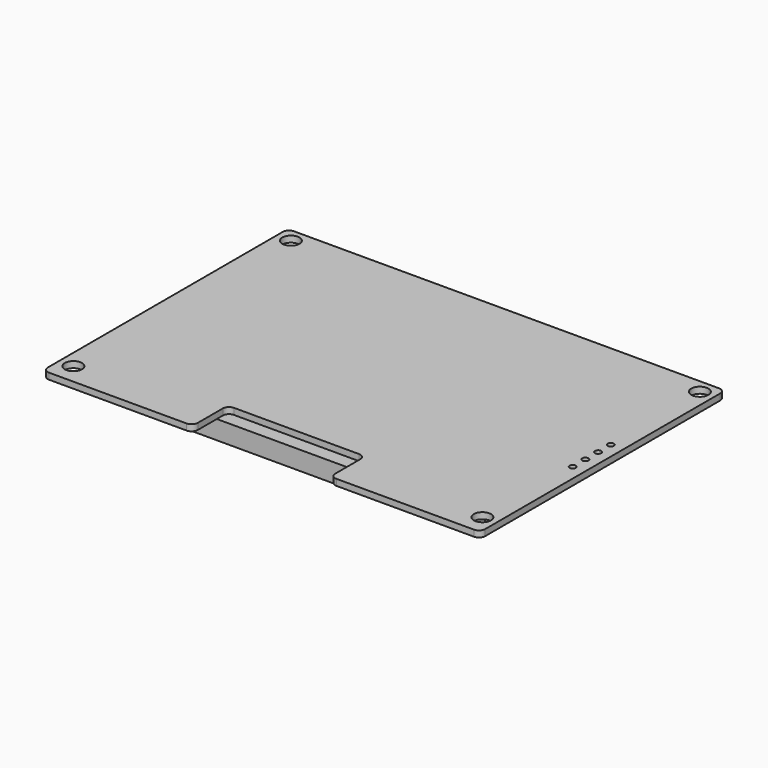
from build123d import *

# Parameters (mm, degrees)
SKETCH010_R     = 1.375
PAD005_DEPTH    = 1
FILLET001_R     = 1
PAD006_DEPTH    = 3
SKETCH012_W     = 57.5
SKETCH012_H     = 30.3
POCKET002_DEPTH = 0.2
SKETCH013_R     = 0.5
POCKET003_DEPTH = 4.001


with BuildPart() as part:
    # Sketch010 (on XY_Plane004 of Origin008) → Pad005 (new body)
    with BuildSketch(Plane.XY):
        Polygon((-35, -24.5), (-11, -24.5), (-11, -17.5), (0, -17.5), (11, -17.5), (11, -24.5), (35, -24.5), (35, 24.5), (-35, 24.5), align=None)
        with Locations((-32.725, 22.275)):
            Circle(SKETCH010_R, mode=Mode.SUBTRACT)
        with Locations((32.725, 22.275)):
            Circle(SKETCH010_R, mode=Mode.SUBTRACT)
        with Locations((-32.725, -21.225)):
            Circle(SKETCH010_R, mode=Mode.SUBTRACT)
        with Locations((32.725, -21.225)):
            Circle(SKETCH010_R, mode=Mode.SUBTRACT)
    extrude(amount=PAD005_DEPTH)

    # Fillet001
    fillet001_edges = [part.edges().sort_by_distance(p)[0] for p in [
        (-35, 24.5, 0.5),
        (35, 24.5, 0.5),
        (35, -24.5, 0.5),
        (-11, -17.5, 0.5),
        (-11, -24.5, 0.5),
        (11, -24.5, 0.5),
        (11, -17.5, 0.5),
        (-35, -24.5, 0.5),
    ]]
    fillet(fillet001_edges, radius=FILLET001_R)

    # Sketch011 (on Face2 of Fillet001) → Pad006 (join)
    with BuildSketch(Plane(origin=(0, 0, 0), x_dir=(1, 0, 0), z_dir=(0, 0, -1))):
        Polygon((-31.15, 18.7), (-31.15, -20.3), (31.15, -20.3), (31.15, 18.7), (19.15, 18.7), (18.15, 19.7), (-18.15, 19.7), (-19.15, 18.7), align=None)
    extrude(amount=PAD006_DEPTH)

    # Sketch012 (on Face32 of Pad006) → Pocket002 (cut)
    with BuildSketch(Plane(origin=(0, 0, -3), x_dir=(1, 0, 0), z_dir=(0, 0, -1))):
        with Locations((0, -3.15)):
            Rectangle(SKETCH012_W, SKETCH012_H)
    extrude(amount=-POCKET002_DEPTH, mode=Mode.SUBTRACT)

    # Sketch013 (on Face5 of Pocket002) → Pocket003 (cut, through all)
    with BuildSketch(Plane.XY.offset(1)):
        with Locations((33, -3.5)):
            Circle(SKETCH013_R)
        with Locations((33, -0.96)):
            Circle(SKETCH013_R)
        with Locations((33, 1.58)):
            Circle(SKETCH013_R)
        with Locations((33, 4.12)):
            Circle(SKETCH013_R)
    extrude(amount=-POCKET003_DEPTH, mode=Mode.SUBTRACT)


solid = part.part
